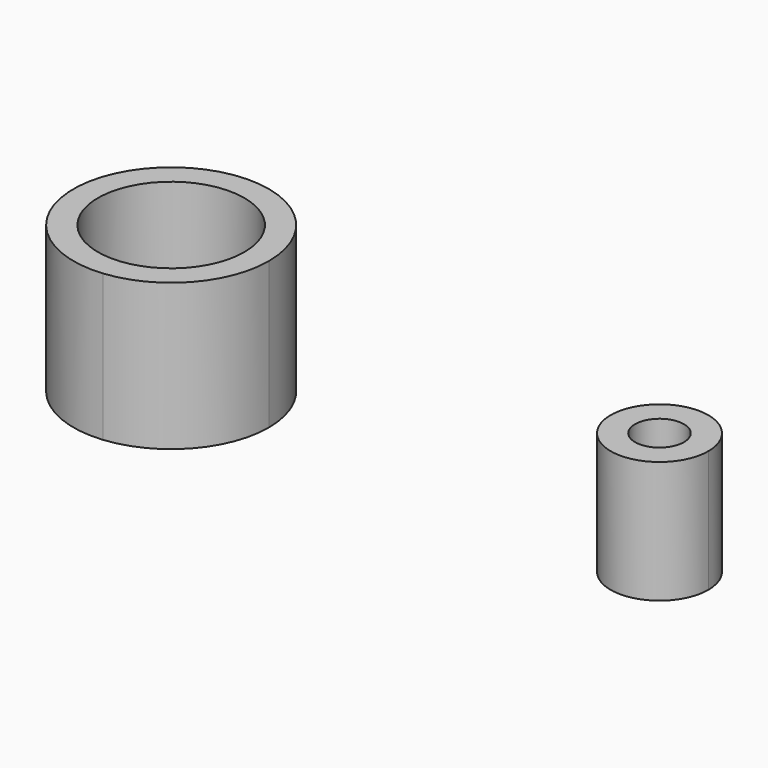
from build123d import *

# Parameters (mm, degrees)
F0_R     = 19.05
F1_DEPTH = 38.1
F0_R_2   = 6.35
F2_DEPTH = 31.75


with BuildPart() as f1:
    # F0 (on Top) → F1 (new body)
    with BuildSketch(Plane.XY):
        with BuildLine():
            ThreePointArc((-86.36, -25.272681), (-70.062856, -17.038838), (-63.5, 0))
            ThreePointArc((-63.5, 0), (-70.062856, 17.038838), (-86.36, 25.272681))
            ThreePointArc((-86.36, 25.272681), (-114.3, 0), (-86.36, -25.272681))
        make_face()
        with Locations((-88.9, 0)):
            Circle(F0_R, mode=Mode.SUBTRACT)
    extrude(amount=F1_DEPTH)


with BuildPart() as f2:
    # F0 (on Top) → F2 (new body)
    with BuildSketch(Plane.XY):
        with BuildLine():
            ThreePointArc((50.8, 0), (47.518572, 8.519419), (39.37, 12.63634))
            ThreePointArc((39.37, 12.63634), (28.681428, -8.519419), (50.8, 0))
        make_face()
        with Locations((38.1, 0)):
            Circle(F0_R_2, mode=Mode.SUBTRACT)
    extrude(amount=F2_DEPTH)


solid = Compound([f1.part, f2.part])
